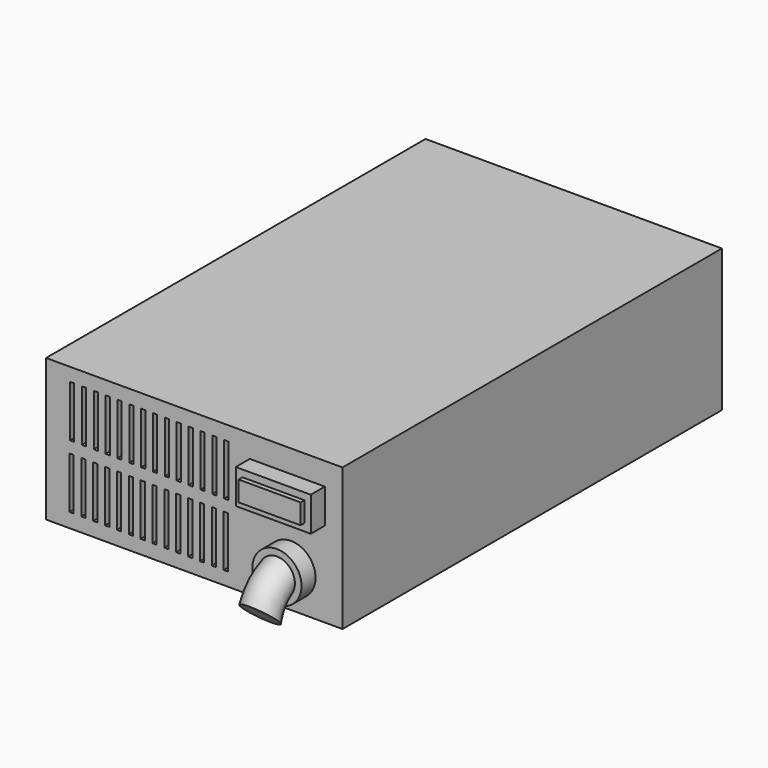
from build123d import *

# Parameters (mm, degrees)
F0_W     = 125
F0_H     = 60
F1_DEPTH = 200
F2_W     = 31.640227
F2_H     = 14.501772
F2_R     = 10.364351
F3_DEPTH = 7.40166
F2_W_2   = 1.757792
F2_H_2   = 21.752657
F2_W_3   = 1.757791
F2_H_3   = 21.752658
F4_DEPTH = 5
F5_W     = 26.129712
F5_H     = 8.492156
F6_DEPTH = 2
F7_R     = 7.582091
F8_ANGLE = 47.242453


with BuildPart() as f1:
    # F0 (on Front) → F1 (new body)
    with BuildSketch(Plane.XZ):
        with Locations((24.371509, 5.21648)):
            Rectangle(F0_W, F0_H)
    extrude(amount=-F1_DEPTH)

    # F2 (on face) → F3 (join)
    with BuildSketch(Plane.XZ):
        with Locations((63.598962, 18.429833)):
            Rectangle(F2_W, F2_H)
        with Locations((65.137036, -9.475091)):
            Circle(F2_R)
    extrude(amount=F3_DEPTH)

    # F2 (on face) → F4 (cut)
    with BuildSketch(Plane.XZ):
        with Locations((63.598962, 18.429833)):
            Rectangle(F2_W, F2_H)
        with Locations((65.137036, -9.475091)):
            Circle(F2_R)
        with Locations((-27.146968, 18.759419)):
            Rectangle(F2_W_2, F2_H_2)
        with Locations((-27.366695, -7.875601)):
            Rectangle(F2_W_3, F2_H_2)
        with Locations((-22.147081, 18.725813)):
            Rectangle(F2_W_2, F2_H_2)
        with Locations((-22.366808, -7.909207)):
            Rectangle(F2_W_3, F2_H_3)
        with Locations((-17.147194, 18.692208)):
            Rectangle(F2_W_2, F2_H_3)
        with Locations((-17.36692, -7.942812)):
            Rectangle(F2_W_3, F2_H_2)
        with Locations((-12.147306, 18.658603)):
            Rectangle(F2_W_3, F2_H_2)
        with Locations((-12.367033, -7.976418)):
            Rectangle(F2_W_3, F2_H_3)
        with Locations((-7.147419, 18.624997)):
            Rectangle(F2_W_3, F2_H_3)
        with Locations((-7.367146, -8.010023)):
            Rectangle(F2_W_2, F2_H_2)
        with Locations((-2.147532, 18.591392)):
            Rectangle(F2_W_3, F2_H_2)
        with Locations((-2.367259, -8.043629)):
            Rectangle(F2_W_2, F2_H_2)
        with Locations((2.852354, 18.557785)):
            Rectangle(F2_W_3, F2_H_2)
        with Locations((2.632628, -8.077235)):
            Rectangle(F2_W_2, F2_H_3)
        with Locations((7.852241, 18.52418)):
            Rectangle(F2_W_3, F2_H_3)
        with Locations((7.632515, -8.11084)):
            Rectangle(F2_W_2, F2_H_2)
        with Locations((12.852128, 18.490574)):
            Rectangle(F2_W_3, F2_H_2)
        with Locations((12.632402, -8.144446)):
            Rectangle(F2_W_3, F2_H_3)
        with Locations((17.852016, 18.456969)):
            Rectangle(F2_W_3, F2_H_3)
        with Locations((17.632289, -8.178051)):
            Rectangle(F2_W_3, F2_H_2)
        with Locations((22.851903, 18.423364)):
            Rectangle(F2_W_3, F2_H_2)
        with Locations((22.632176, -8.211657)):
            Rectangle(F2_W_3, F2_H_3)
        with Locations((27.851789, 18.389757)):
            Rectangle(F2_W_3, F2_H_2)
        with Locations((27.632064, -8.245262)):
            Rectangle(F2_W_3, F2_H_2)
        with Locations((32.851676, 18.356152)):
            Rectangle(F2_W_3, F2_H_3)
        with Locations((32.631951, -8.278868)):
            Rectangle(F2_W_3, F2_H_2)
        with Locations((37.851563, 18.322546)):
            Rectangle(F2_W_3, F2_H_2)
        with Locations((37.631837, -8.312474)):
            Rectangle(F2_W_3, F2_H_3)
    extrude(amount=-F4_DEPTH, mode=Mode.SUBTRACT)

    # F5 (on face) → F6 (join)
    with BuildSketch(Plane.XZ.offset(7.40166)):
        with Locations((63.670112, 18.518826)):
            Rectangle(F5_W, F5_H)
    extrude(amount=F6_DEPTH)

    # F7 (on face) → F8 (revolve)
    with BuildSketch(Plane.XZ.offset(7.40166)):
        with Locations((65.137036, -9.475091)):
            Circle(F7_R)
    revolve(axis=Axis((24.371509, 0, -24.78352), (1, 0, 0)), revolution_arc=F8_ANGLE)


solid = f1.part
